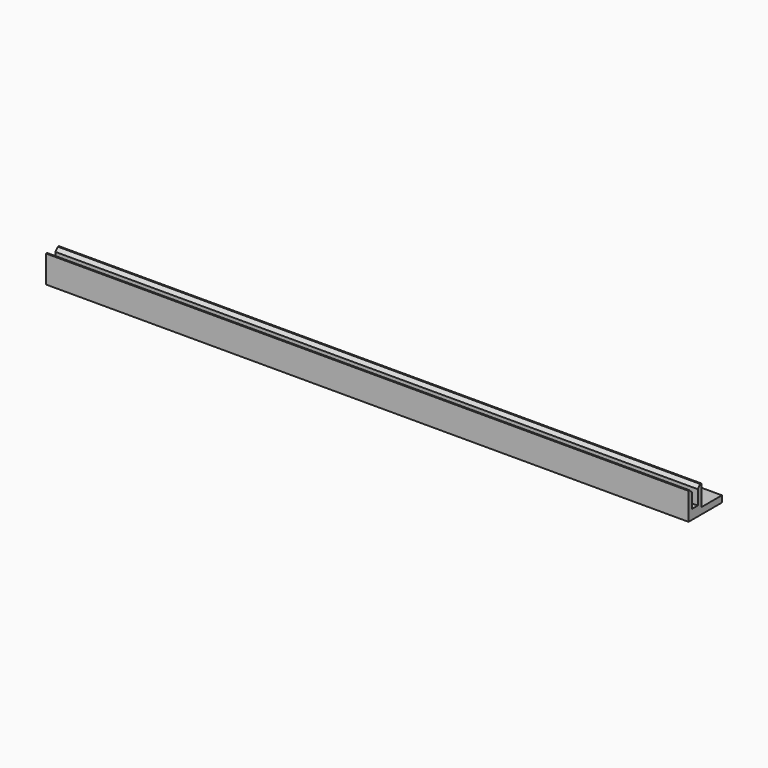
from build123d import *

# Parameters (mm, degrees)
F0_W           = 200
F0_H           = 5
F1_DEPTH       = 8.5
F2_W           = 200
F2_H           = 2.2
F3_DEPTH       = 5.5
F4_W           = 200
F4_H           = 2
F5_DEPTH       = 8
F7_D           = 2.5
F7_CSINK_D     = 5
F7_CSINK_ANGLE = 90
F8_SIZE        = 1


with BuildPart() as f1:
    # F0 (on Top) → F1 (new body)
    with BuildSketch(Plane.XY):
        with Locations((0, 0.839391)):
            Rectangle(F0_W, F0_H)
    extrude(amount=F1_DEPTH)

    # F2 (on face) → F3 (cut)
    with BuildSketch(Plane.XY.offset(8.5)):
        with Locations((0, 0.839391)):
            Rectangle(F2_W, F2_H)
    extrude(amount=-F3_DEPTH, mode=Mode.SUBTRACT)

    # F4 (on face) → F5 (join)
    with BuildSketch(Plane(origin=(0, 3.339391, 0), x_dir=(-1, 0, 0), z_dir=(0, 1, 0))):
        with Locations((0, 1)):
            Rectangle(F4_W, F4_H)
    extrude(amount=F5_DEPTH)

    # F7 (through all)
    with Locations(Plane.XY.offset(2)):
        with Locations((0, 7.339391), (80, 7.339391), (-80, 7.339391)):
            CounterSinkHole(F7_D / 2, F7_CSINK_D / 2, counter_sink_angle=F7_CSINK_ANGLE)

    # F8
    f8_edges = [f1.edges().sort_by_distance(p)[0] for p in [
        (0, 1.939391, 8.5),
        (0, -0.260609, 8.5),
    ]]
    chamfer(f8_edges, length=F8_SIZE)


solid = f1.part
